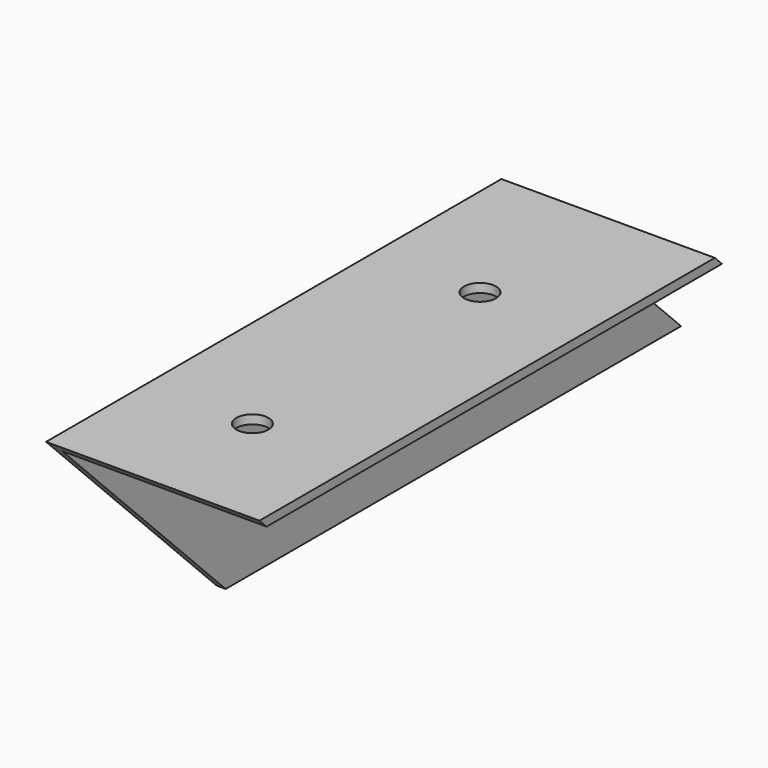
from build123d import *

# Parameters (mm, degrees)
F1_DEPTH = 220
F3_DEPTH = 60.001
F4_R     = 4.5
F5_DEPTH = 60.001


with BuildPart() as f1:
    # F0 (on Front) → F1 (new body)
    with BuildSketch(Plane.XZ):
        Polygon((60, 0), (0, 0), (0, -60), (2.5, -60), (2.5, -2.5), (60, -2.5), align=None)
    extrude(amount=F1_DEPTH)

    # F2 (on face) → F3 (cut, through all)
    with BuildSketch(Plane(origin=(0, 0, 0), x_dir=(0, -1, 0), z_dir=(-1, 0, 0))):
        Polygon((0, 0), (0, -60), (60, 0), align=None)
        Polygon((220, -60), (220, 0), (160, -60), align=None)
    extrude(amount=-F3_DEPTH, mode=Mode.SUBTRACT)

    # F4 (on face) → F5 (cut, through all)
    with BuildSketch(Plane.XY):
        with Locations((30, -105)):
            Circle(F4_R)
        with Locations((30, -185)):
            Circle(F4_R)
    extrude(amount=-F5_DEPTH, mode=Mode.SUBTRACT)


solid = f1.part
